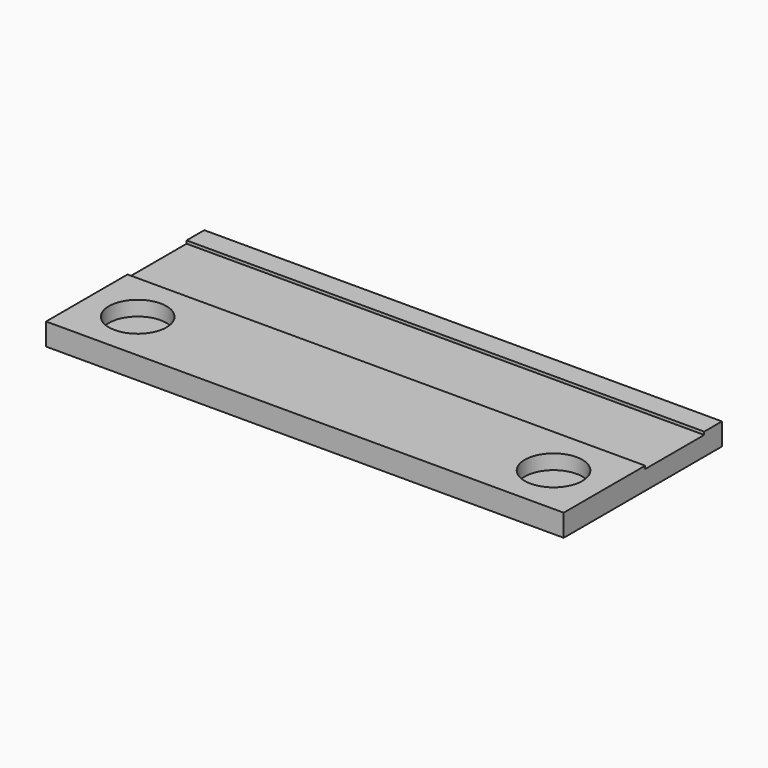
from build123d import *

# Parameters (mm, degrees)
F1_W     = 70.157
F1_H     = 26.8
F2_DEPTH = 1
F0_W     = 70.157
F0_H     = 13.8
F0_R     = 3.9
F0_H_2   = 3
F3_DEPTH = 2
F0_H_3   = 10
F4_DEPTH = 1.6


with BuildPart() as f2:
    # F1 (on Top) → F2 (new body)
    with BuildSketch(Plane.XY):
        with Locations((0, 6.5)):
            Rectangle(F1_W, F1_H)
    extrude(amount=-F2_DEPTH)

    # F0 (on Top) → F3 (join)
    with BuildSketch(Plane.XY):
        Rectangle(F0_W, F0_H)
        with Locations((-28.1785, 0)):
            Circle(F0_R, mode=Mode.SUBTRACT)
        with Locations((28.1785, 0)):
            Circle(F0_R, mode=Mode.SUBTRACT)
        with Locations((0, 18.4)):
            Rectangle(F0_W, F0_H_2)
    extrude(amount=F3_DEPTH)

    # F0 (on Top) → F4 (join)
    with BuildSketch(Plane.XY):
        with Locations((0, 11.9)):
            Rectangle(F0_W, F0_H_3)
    extrude(amount=F4_DEPTH)


solid = f2.part
